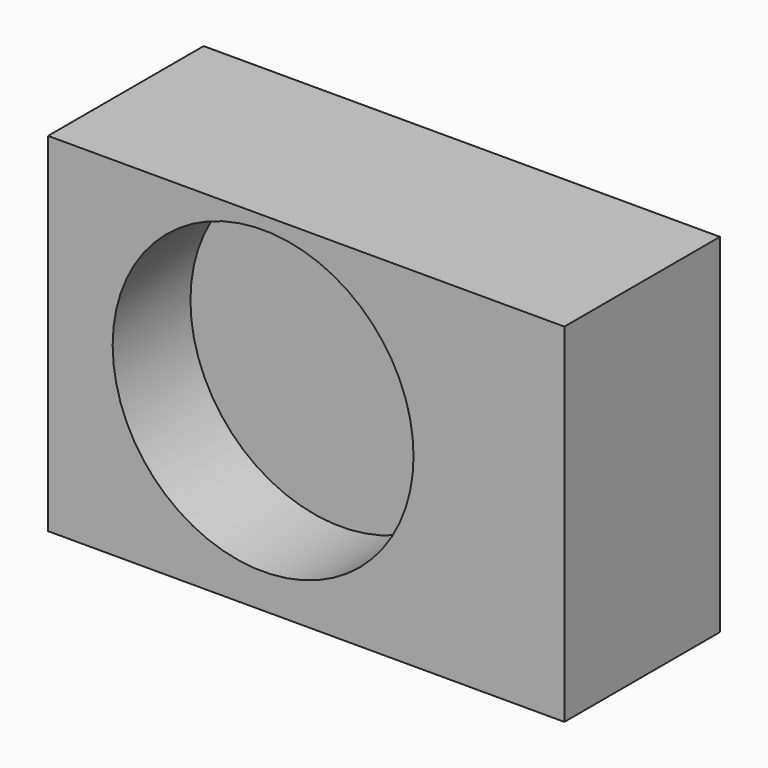
from build123d import *

# Parameters (mm, degrees)
F0_W     = 67.445515
F0_H     = 45.45887
F1_DEPTH = 25.4
F2_R     = 19.650308
F3_DEPTH = 12.7


with BuildPart() as f1:
    # F0 (on Front) → F1 (new body)
    with BuildSketch(Plane.XZ):
        with Locations((5.633075, -1.406821)):
            Rectangle(F0_W, F0_H)
    extrude(amount=F1_DEPTH)

    # F2 (on face) → F3 (cut)
    with BuildSketch(Plane.XZ.offset(25.4)):
        Circle(F2_R)
    extrude(amount=-F3_DEPTH, mode=Mode.SUBTRACT)


solid = f1.part
